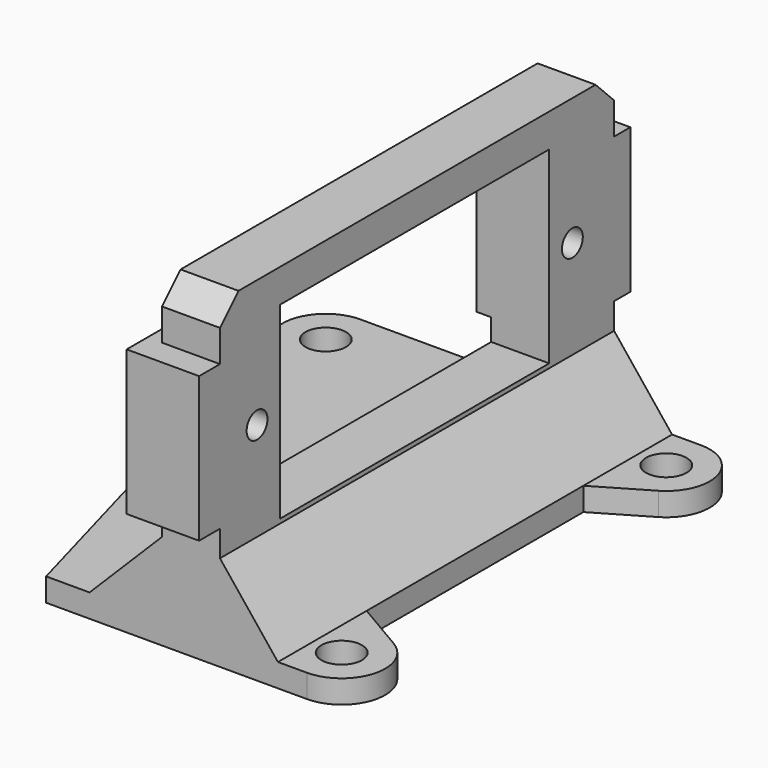
from build123d import *

# Parameters (mm, degrees)
PAD_DEPTH       = 34
SKETCH_R        = 0.9
POCKET_DEPTH    = 12.001
SKETCH003_W     = 13
SKETCH003_H     = 23.2
POCKET001_DEPTH = 12.001
SKETCH005_R     = 1.4
PAD001_DEPTH    = 1.6
SKETCH006_R     = 1.4
PAD002_DEPTH    = 1.6
SKETCH007_W     = 10
SKETCH007_H     = 7
SKETCH007_R     = 0.9
PAD003_DEPTH    = 5
CHAMFER_SIZE    = 1.6


with BuildPart() as part:
    # Sketch001 → Pad (new body)
    with BuildSketch(Plane.XZ):
        Polygon((-12, 1.6), (-9, 1.6), (-4, 6.6), (-4, 22.2), (0, 22.2), (0, 6.6), (4, 1.6), (4, 0), (-3.601763, 0), (-12, 0), align=None)
    extrude(amount=PAD_DEPTH)

    # Sketch → Pocket (cut, through all)
    with BuildSketch(Plane(origin=(0, 0, 0), x_dir=(0, 0, 1), z_dir=(1, 0, 0))):
        with Locations((13.4, 30.8)):
            Circle(SKETCH_R)
        with Locations((13.4, 3.6)):
            Circle(SKETCH_R)
    extrude(amount=-POCKET_DEPTH, mode=Mode.SUBTRACT)

    # Sketch003 (on DatumPlane) → Pocket001 (cut, through all)
    with BuildSketch(Plane(origin=(0, 0, 0), x_dir=(0, 0, 1), z_dir=(1, 0, 0))):
        with Locations((13.4, 17.2)):
            Rectangle(SKETCH003_W, SKETCH003_H)
    extrude(amount=-POCKET001_DEPTH, mode=Mode.SUBTRACT)

    # Sketch005 → Pad001 (join)
    with BuildSketch(Plane.XY):
        with BuildLine():
            ThreePointArc((-17.5, 0), (-19.888457, -1.184712), (-20.390493, -3.803152))
            Line((-12, -34), (-20.390493, -3.803152))
            Line((-11.5, -34), (-12, -34))
            Line((-11.5, 0), (-11.5, -34))
            Line((-11.5, 0), (-17.5, 0))
        make_face()
        with Locations((-17.5, -3)):
            Circle(SKETCH005_R, mode=Mode.SUBTRACT)
    extrude(amount=PAD001_DEPTH)

    # Sketch006 → Pad002 (join)
    with BuildSketch(Plane.XY):
        with BuildLine():
            ThreePointArc((6, -34), (8.894987, -31.786799), (7.518515, -28.412702))
            Line((0, -24), (7.518515, -28.412702))
            Line((0, -34), (0, -24))
            Line((0, -34), (6, -34))
        make_face()
        with Locations((6, -31)):
            Circle(SKETCH006_R, mode=Mode.SUBTRACT)
        with BuildLine():
            ThreePointArc((7.518515, -5.587298), (8.894988, -2.213208), (6.000014, 0))
            Line((0, 0), (6.000014, 0))
            Line((0, 0), (0, -10))
            Line((0, -10), (7.518515, -5.587298))
        make_face()
        with Locations((6, -3)):
            Circle(SKETCH006_R, mode=Mode.SUBTRACT)
    extrude(amount=PAD002_DEPTH)

    # Sketch007 (on Face3 of Pad002) → Pad003 (join)
    with BuildSketch(Plane(origin=(0, 0, 0), x_dir=(0, 0, 1), z_dir=(1, 0, 0))):
        with Locations((13.4, 32.3)):
            Rectangle(SKETCH007_W, SKETCH007_H)
        with Locations((13.4, 30.8)):
            Circle(SKETCH007_R, mode=Mode.SUBTRACT)
        with Locations((13.4, 2.1)):
            Rectangle(SKETCH007_W, SKETCH007_H)
        with Locations((13.4, 3.6)):
            Circle(SKETCH007_R, mode=Mode.SUBTRACT)
    extrude(amount=-PAD003_DEPTH)

    # Chamfer
    chamfer_edges = [part.edges().sort_by_distance(p)[0] for p in [
        (-2, 0, 22.2),
        (-2, -34, 22.2),
    ]]
    chamfer(chamfer_edges, length=CHAMFER_SIZE)


solid = part.part
